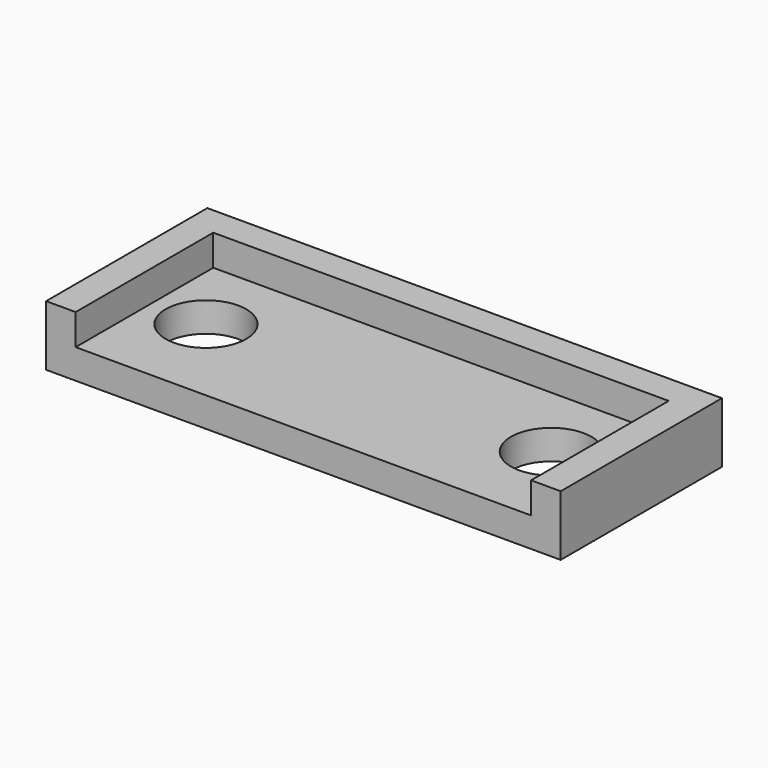
from build123d import *

# Parameters (mm, degrees)
F0_W     = 38.3
F0_H     = 15
F0_R     = 3
F1_DEPTH = 2.2
F3_DEPTH = 2.3


with BuildPart() as f1:
    # F0 (on Top) → F1 (new body)
    with BuildSketch(Plane.XY):
        with Locations((-19.15, 7.5)):
            Rectangle(F0_W, F0_H)
        with Locations((-32, 7)):
            Circle(F0_R, mode=Mode.SUBTRACT)
        with Locations((-6.3, 7)):
            Circle(F0_R, mode=Mode.SUBTRACT)
    extrude(amount=F1_DEPTH)

    # F2 (on face) → F3 (join)
    with BuildSketch(Plane.XY.offset(2.2)):
        Polygon((0, 15), (-38.3, 15), (-38.3, 0), (-36.1, 0), (-36.1, 12.8), (-2.2, 12.8), (-2.2, 0), (0, 0), align=None)
    extrude(amount=F3_DEPTH)


solid = f1.part
